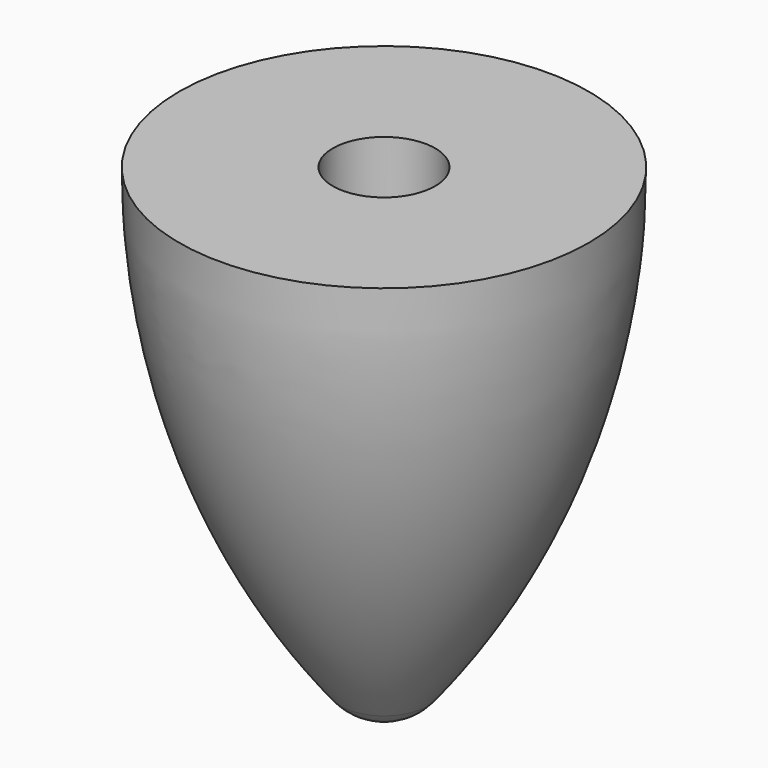
from build123d import *

# Parameters (mm, degrees)
F3_D     = 5
F3_DEPTH = 9
F3_TIP   = 1.5021515476


with BuildPart() as f1:
    # F0 (on Front) → F1 (revolve)
    with BuildSketch(Plane.XZ):
        with BuildLine():
            Line((10, 0), (0, 0))
            Line((0, 0), (0, -23.5))
            ThreePointArc((0, -23.5), (1.1742279185, -23.2323940705), (2.116551517, -22.4824271553))
            ThreePointArc((2.116551517, -22.4824271553), (7.9720168272, -11.9122656407), (10, 0))
        make_face()
    revolve(axis=Axis((0, 0, -11.75), (0, 0, -1)))

    # F3
    with Locations(Plane.XY):
        with Locations((0, 0)):
            Hole(F3_D / 2, depth=F3_DEPTH)
            with Locations((0, 0, -(F3_DEPTH + F3_TIP / 2))):  # 118° drill point
                Cone(0, F3_D / 2, F3_TIP, mode=Mode.SUBTRACT)


solid = f1.part
